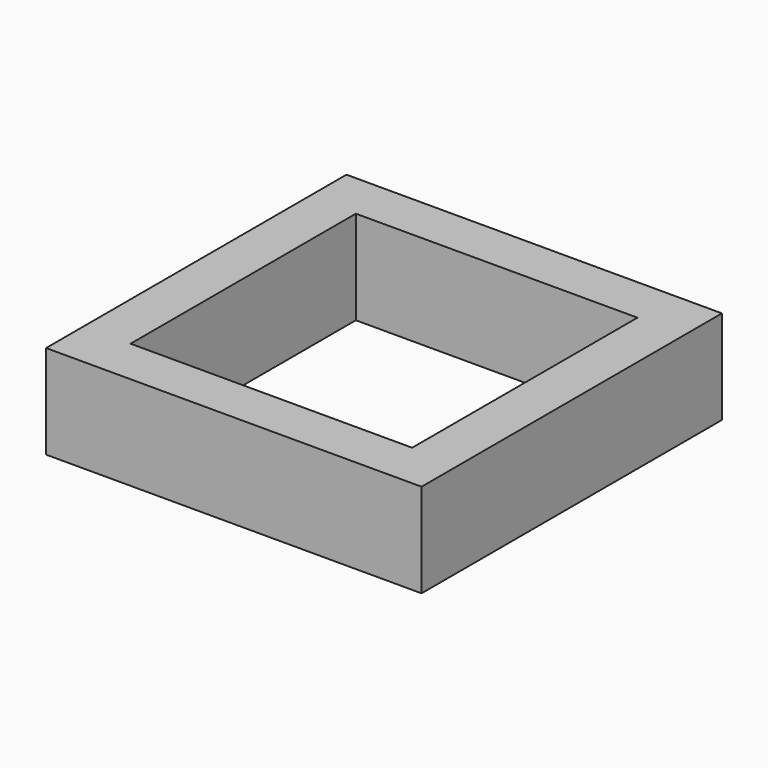
from build123d import *

# Parameters (mm, degrees)
BOX022_W     = 6
BOX022_H     = 6
BOX022_DEPTH = 2
BOX021_W     = 8
BOX021_H     = 8
BOX021_DEPTH = 2


with BuildPart() as cube022:
    # Box022 → Box022 (new body)
    with BuildSketch(Plane(origin=(-19.5, 1, 0), x_dir=(1, 0, 0), z_dir=(0, 0, 1))):
        with Locations((3, 3)):
            Rectangle(BOX022_W, BOX022_H)
    extrude(amount=BOX022_DEPTH)


with BuildPart() as cut003007:
    # Box021 → Box021 (new body)
    with BuildSketch(Plane(origin=(-20.5, 0, 0), x_dir=(1, 0, 0), z_dir=(0, 0, 1))):
        with Locations((4, 4)):
            Rectangle(BOX021_W, BOX021_H)
    extrude(amount=BOX021_DEPTH)

    # Cut003007: cut Cube022
    add(cube022.part, mode=Mode.SUBTRACT)


solid = cut003007.part
